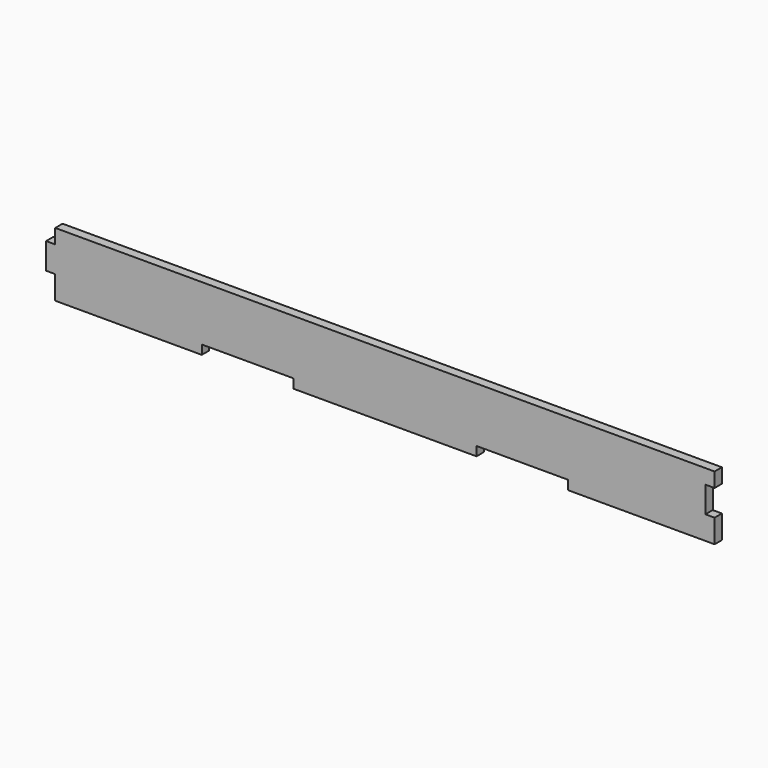
from build123d import *

# Parameters (mm, degrees)
F0_W     = 63.5
F0_H     = 3.175
F0_W_2   = 50.8
F0_W_3   = 3.175
F0_H_2   = 9.060342
F1_DEPTH = 3.175


with BuildPart() as f1:
    # F0 (on Front) → F1 (new body)
    with BuildSketch(Plane.XZ):
        with Locations((0, -11.1125)):
            Rectangle(F0_W, F0_H)
        with Locations((-88.9, -11.1125)):
            Rectangle(F0_W_2, F0_H)
        with Locations((88.9, -11.1125)):
            Rectangle(F0_W_2, F0_H)
        with Locations((-115.8875, -0.04538)):
            Rectangle(F0_W_3, F0_H_2)
        with Locations((0, -7.9375)):
            Rectangle(F0_W, F0_H)
        Polygon((114.3, 4.484791), (114.3, 9.525), (-114.3, 9.525), (-114.3, 4.484791), (-114.3, -4.575551), (-114.3, -9.525), (-63.5, -9.525), (-31.75, -9.525), (-31.75, -6.35), (31.75, -6.35), (31.75, -9.525), (63.5, -9.525), (114.3, -9.525), (114.3, -4.575551), (111.125, -4.575551), (111.125, 4.484791), align=None)
    extrude(amount=F1_DEPTH)


solid = f1.part
